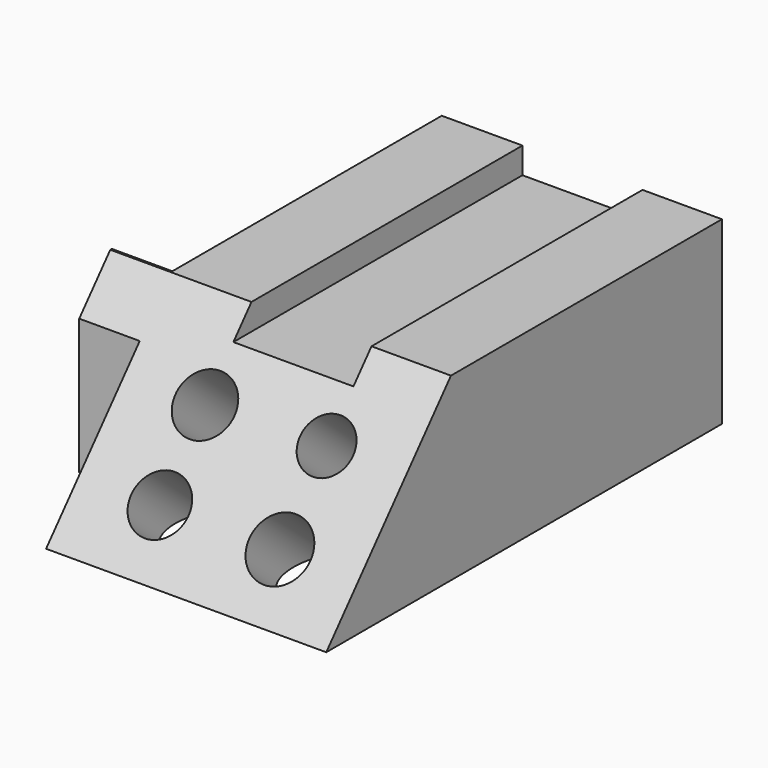
from build123d import *

# Parameters (mm, degrees)
F1_W     = 8.5294544697
F1_H     = 5.7481119875
F2_DEPTH = 25.4
F4_DEPTH = 48.0255407671
F5_W     = 16.9233079068
F5_H     = 3.6851934433
F6_DEPTH = 69.7200267965
F7_R     = 4.0401840977
F7_R_2   = 4.3013200875
F7_R_3   = 4.1544186405
F7_R_4   = 3.7387935899
F8_DEPTH = 52.7287156055


with BuildPart() as f2:
    # F1 (on face) → F2 (new body)
    with BuildSketch(Plane.XY):
        Polygon((21.6944832355, -13.6285861954), (21.6944832355, 56.0904406011), (-17.8006030619, 56.0904406011), (-17.8006030619, 8.622167632), (-17.8006030619, 2.8740556445), (-17.8006030619, -13.6285861954), align=None)
        with Locations((-22.0653302968, 5.7481116382)):
            Rectangle(F1_W, F1_H)
    extrude(amount=F2_DEPTH)

    # F3 (on face) → F4 (cut, through all)
    with BuildSketch(Plane.YZ.offset(21.6944832355)):
        Polygon((-13.6285861954, 25.4), (-13.6285861954, 0), (8.3440328017, 25.4), align=None)
    extrude(amount=-F4_DEPTH, mode=Mode.SUBTRACT)

    # F5 (on face) → F6 (cut, through all)
    with BuildSketch(Plane(origin=(0, 56.0904406011, 0), x_dir=(-1, 0, 0), z_dir=(0, 1, 0))):
        with Locations((-2.0361964125, 23.5574032784)):
            Rectangle(F5_W, F5_H)
    extrude(amount=-F6_DEPTH, mode=Mode.SUBTRACT)

    # F7 (on face) → F8 (cut, through all)
    with BuildSketch(Plane(origin=(0, -7.7951788741, 6.7433265912), x_dir=(1, 0, 0), z_dir=(0, -0.7562887497, 0.6542379744))):
        with Locations((-6.4254575409, 0)):
            Circle(F7_R)
        with Locations((10.4978503659, 0)):
            Circle(F7_R_2)
        with Locations((-6.4254575409, 12.1534615755)):
            Circle(F7_R_3)
        with Locations((10.4978503659, 12.5690866262)):
            Circle(F7_R_4)
    extrude(amount=-F8_DEPTH, mode=Mode.SUBTRACT)


solid = f2.part
